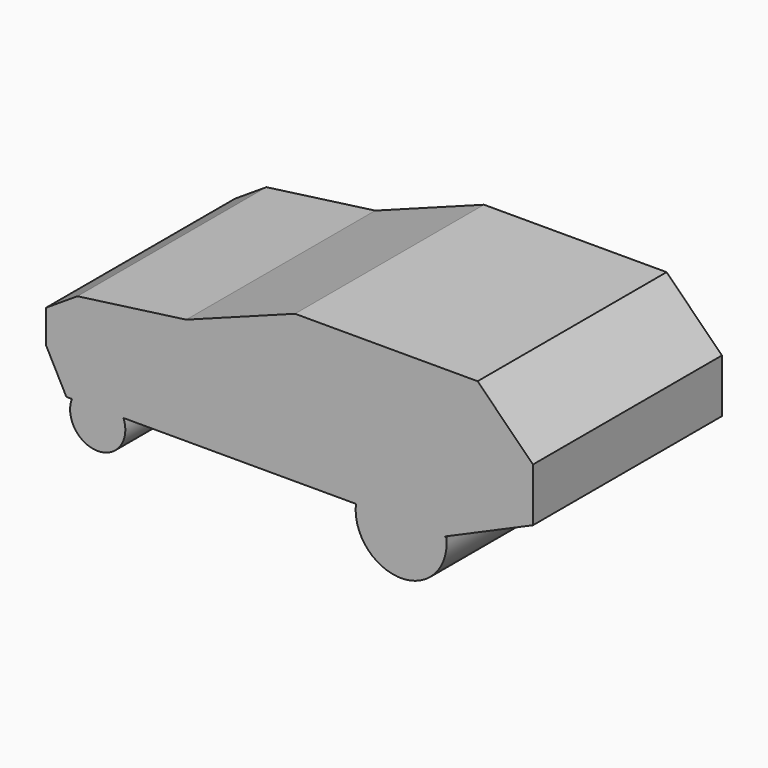
from build123d import *

# Parameters (mm, degrees)
F4_DEPTH = 26.0096


with BuildPart() as f4:
    # F3 (on Front) → F4 (new body)
    with BuildSketch(Plane.XZ):
        with BuildLine():
            Line((-15.027259, 4.264493), (-15.027259, 10.153553))
            Line((-15.027259, 10.153553), (-21.119392, 16.245686))
            Line((-21.119392, 16.245686), (-41.223429, 16.245686))
            Line((-41.223429, 16.245686), (-53.204622, 11.778122))
            Line((-53.204622, 11.778122), (-65.185815, 10.153553))
            Line((-65.185815, 10.153553), (-68.638019, 7.919772))
            Line((-68.638019, 7.919772), (-68.638019, 4.264493))
            Line((-68.638019, 4.264493), (-66.404238, 0))
            Line((-66.404238, 0), (-65.795027, 0))
            ThreePointArc((-65.795027, 0), (-62.952032, -4.125348), (-60.109038, 0))
            Line((-60.109038, 0), (-34.520175, 0))
            ThreePointArc((-34.520175, 0), (-29.543368, -5.586779), (-24.566561, 0))
            Line((-24.566561, 0), (-24.774671, 0))
            Line((-24.774671, 0), (-15.027259, 4.264493))
        make_face()
    extrude(amount=F4_DEPTH)


solid = f4.part
